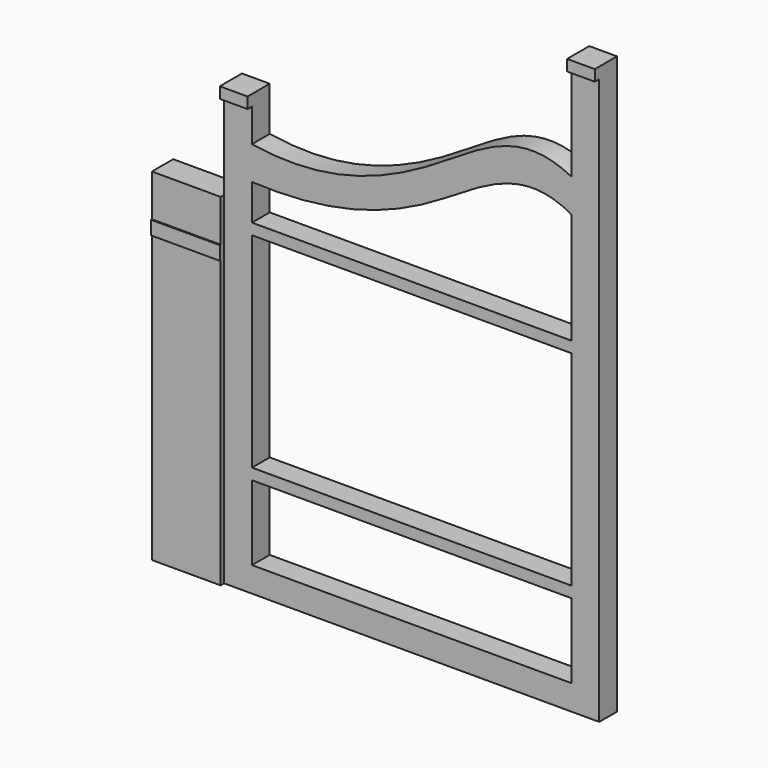
from build123d import *

# Parameters (mm, degrees)
F0_W     = 73.152
F0_H     = 5.744279672
F1_DEPTH = 5.08
F0_W_2   = 6.35
F0_H_2   = 2.54
F0_W_3   = 15.748
F0_H_3   = 3.1443536282
F2_DEPTH = 6.35
F0_H_4   = 9.6294713412
F0_H_5   = 65.5344708799
F3_DEPTH = 6.096
F4_DEPTH = 5.08
F5_DEPTH = 5.08


with BuildPart() as f1:
    # F0 (on Front) → F1 (new body)
    with BuildSketch(Plane.XZ):
        with BuildLine():
            add(Edge.make_bspline(
                [(-61.3806553816, 58.3893715901), (-43.8441733015, 55.5345989136), (-19.0644229117, 66.1410851266), (0, 81.7292685512), (11.7713446184, 75.597518316)],
                knots=[0, 0, 0, 0, 0.5425588266, 1, 1, 1, 1], degree=3))
            Line((-61.3806553816, 58.3893715901), (-61.3806553816, 50.7693715901))
            add(Edge.make_bspline(
                [(-61.3806553816, 50.7693715901), (-44.0213347189, 49.9104853444), (-20.1279301639, 57.0149364757), (0.0923789407, 74.6247452568), (11.7713446184, 67.977518316)],
                knots=[0, 0, 0, 0, 0.5368571136, 1, 1, 1, 1], degree=3))
            Line((11.7713446184, 67.977518316), (11.7713446184, 75.597518316))
        make_face()
        Polygon((-67.7306553816, 65.9703469514), (-67.7306553816, 46.1095218752), (-67.7306553816, 36.480050534), (-67.7306553816, 33.3356969059), (-67.7306553816, -32.198773974), (-61.3806553816, -32.198773974), (-61.3806553816, -26.454494302), (-61.3806553816, -9.338773974), (-61.3806553816, -6.798773974), (-61.3806553816, -1.905), (-61.3806553816, -0.9525), (-61.3806553816, 0), (-61.3806553816, 10.16), (-61.3806553816, 11.1125), (-61.3806553816, 12.065), (-61.3806553816, 40.037518316), (-61.3806553816, 42.577518316), (-61.3806553816, 43.1493715901), (-61.3806553816, 50.7693715901), (-61.3806553816, 58.3893715901), (-61.3806553816, 65.9703469514), align=None)
        with Locations((-24.8046553816, -29.326634138)):
            Rectangle(F0_W, F0_H)
        Polygon((11.7713446184, 97.341226026), (11.7713446184, 75.597518316), (11.7713446184, 67.977518316), (11.7713446184, 46.1095218752), (11.7713446184, 42.577518316), (11.7713446184, 40.037518316), (11.7713446184, 12.065), (11.7713446184, 11.1125), (11.7713446184, 10.16), (11.7713446184, 0), (11.7713446184, -0.9525), (11.7713446184, -1.905), (11.7713446184, -6.798773974), (11.7713446184, -9.338773974), (11.7713446184, -26.454494302), (11.7713446184, -32.198773974), (18.1213446184, -32.198773974), (18.1213446184, 97.341226026), align=None)
    extrude(amount=F1_DEPTH)

    # F0 (on Front) → F2 (join)
    with BuildSketch(Plane.XZ):
        with Locations((-64.5556553816, 67.2403469514)):
            Rectangle(F0_W_2, F0_H_2)
        with Locations((14.9463446184, 98.611226026)):
            Rectangle(F0_W_2, F0_H_2)
        with Locations((-75.6046553816, 34.9078737199)):
            Rectangle(F0_W_3, F0_H_3)
    extrude(amount=F2_DEPTH)

    # F0 (on Front) → F3 (join)
    with BuildSketch(Plane.XZ):
        with Locations((-75.6046553816, 41.2947862046)):
            Rectangle(F0_W_3, F0_H_4)
        with Locations((-75.6046553816, 0.5684614659)):
            Rectangle(F0_W_3, F0_H_5)
    extrude(amount=F3_DEPTH)

    # F0 (on Front) → F4 (join)
    with BuildSketch(Plane.XZ):
        with Locations((-24.8046553816, 41.307518316)):
            Rectangle(F0_W, F0_H_2)
    extrude(amount=F4_DEPTH)

    # F0 (on Front) → F5 (join)
    with BuildSketch(Plane.XZ):
        with Locations((-24.8046553816, -8.068773974)):
            Rectangle(F0_W, F0_H_2)
    extrude(amount=F5_DEPTH)


solid = f1.part
